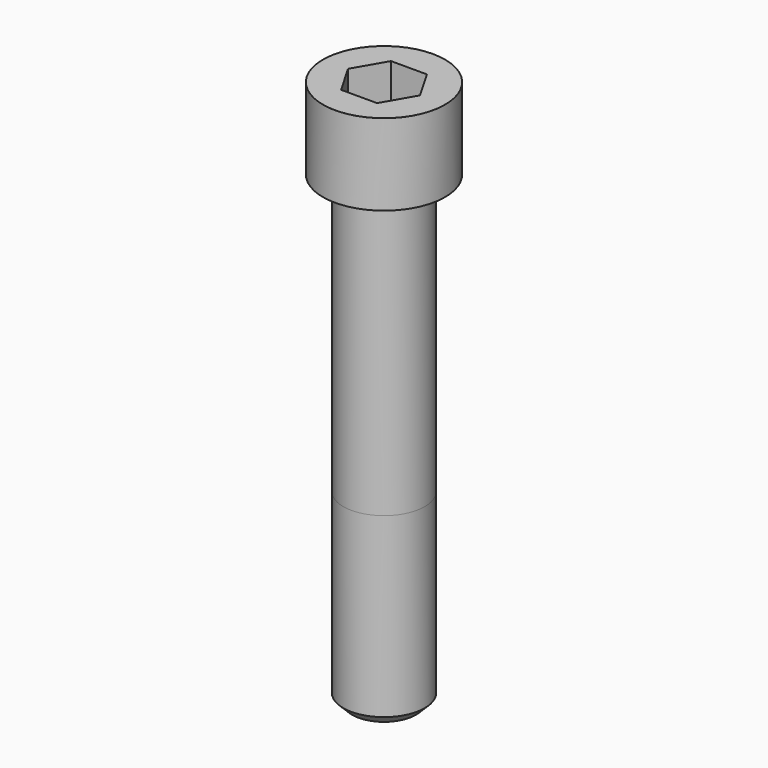
from build123d import *

# Parameters (mm, degrees)
POCKET_DEPTH = 32.15


with BuildPart() as part:
    # Sketch → Revolve (revolve)
    with BuildSketch(Plane.YZ):
        with BuildLine():
            Line((20.999, 0), (31.5, 0))
            Line((31.5, 0), (31.5, 41.97229))
            ThreePointArc((31.5, 41.97229), (31.491884, 41.991884), (31.47229, 42))
            Line((31.47229, 42), (0, 42))
            Line((0, -240), (0, 42))
            Line((16.5, -240), (0, -240))
            Line((21, -235.5), (16.5, -240))
            Line((21, -144), (21, -235.5))
            Line((20.999, 0), (21, -144))
        make_face()
    revolve(axis=Axis((0, 0, 0), (0, 0, 1)))

    # Sketch001 → Pocket (cut)
    with BuildSketch(Plane.XY.offset(42)):
        Polygon((18.561811, 0), (9.280906, 16.075), (-9.280906, 16.075), (-18.561811, 0), (-9.280906, -16.075), (9.280906, -16.075), align=None)
    extrude(amount=-POCKET_DEPTH, mode=Mode.SUBTRACT)


solid = part.part
